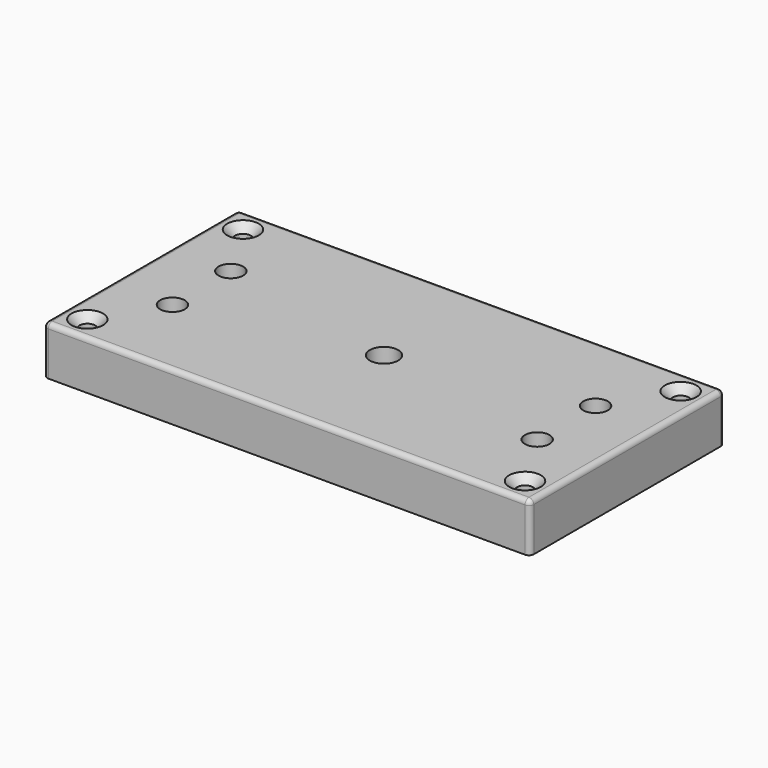
from build123d import *

# Parameters (mm, degrees)
F0_W           = 200
F0_H           = 100
F1_DEPTH       = 20
F2_R           = 5.05
F3_DEPTH       = 20.001
F5_D           = 6.5
F5_DEPTH       = 25
F5_CSINK_D     = 13
F5_CSINK_ANGLE = 90
F5_TIP         = 1.9527970118
F7_D           = 5
F7_DEPTH       = 20
F7_TIP         = 1.5021515476
F8_R           = 5.85
F8_R_2         = 2.5
F9_DEPTH       = 6
F10_R          = 2


with BuildPart() as f1:
    # F0 (on Top) → F1 (new body)
    with BuildSketch(Plane.XY):
        Rectangle(F0_W, F0_H)
    extrude(amount=F1_DEPTH)

    # F2 (on face) → F3 (cut, through all)
    with BuildSketch(Plane.XY.offset(20)):
        with Locations((-75, 15)):
            Circle(F2_R)
        with Locations((-75, -15)):
            Circle(F2_R)
        with Locations((75, -15)):
            Circle(F2_R)
        with Locations((75, 15)):
            Circle(F2_R)
    extrude(amount=-F3_DEPTH, mode=Mode.SUBTRACT)

    # F5
    with Locations(Plane.XY.offset(20)):
        with Locations((-90, 40), (90, 40), (90, -40), (-90, -40)):
            CounterSinkHole(F5_D / 2, F5_CSINK_D / 2, depth=F5_DEPTH, counter_sink_angle=F5_CSINK_ANGLE)
            with Locations((0, 0, -(F5_DEPTH + F5_TIP / 2))):  # 118° drill point
                Cone(0, F5_D / 2, F5_TIP, mode=Mode.SUBTRACT)

    # F7
    with Locations(Plane.XY.offset(20)):
        with Locations((0, 0)):
            Hole(F7_D / 2, depth=F7_DEPTH)
            with Locations((0, 0, -(F7_DEPTH + F7_TIP / 2))):  # 118° drill point
                Cone(0, F7_D / 2, F7_TIP, mode=Mode.SUBTRACT)

    # F8 (on face) → F9 (cut)
    with BuildSketch(Plane.XY.offset(20)):
        Circle(F8_R)
        Circle(F8_R_2, mode=Mode.SUBTRACT)
    extrude(amount=-F9_DEPTH, mode=Mode.SUBTRACT)

    # F10
    f10_edges = [f1.edges().sort_by_distance(p)[0] for p in [
        (-100, -50, 10),
        (100, -50, 10),
        (100, 50, 10),
        (-100, 50, 10),
        (0, 50, 20),
        (100, 0, 20),
        (0, -50, 20),
        (-100, 0, 20),
    ]]
    fillet(f10_edges, radius=F10_R)


solid = f1.part
